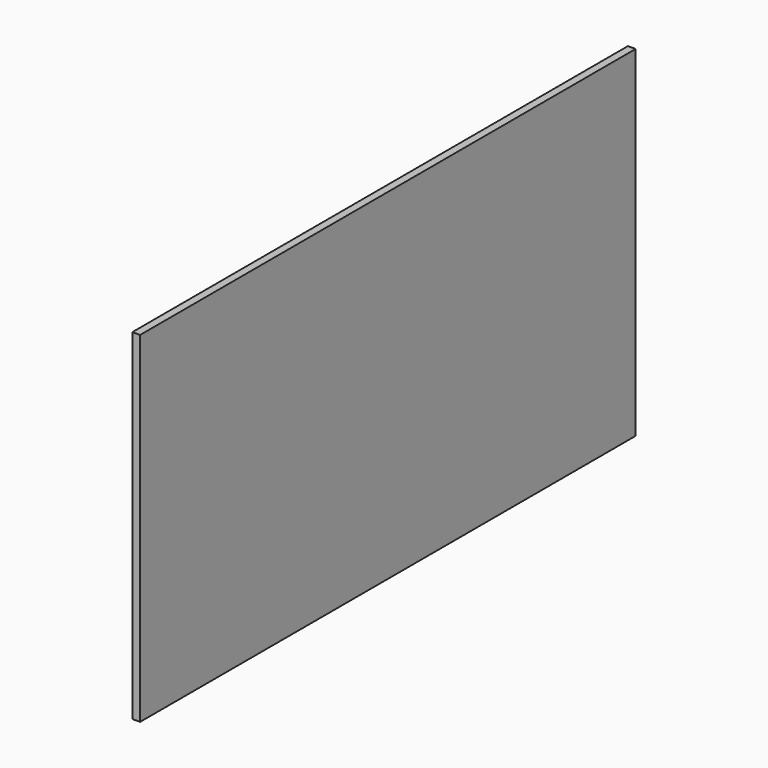
from build123d import *

# Parameters (mm, degrees)
F0_W      = 3.175
F0_H      = 139.7
F1_DEPTH  = 419.1
F1_FACE_W = 3.175
F1_FACE_H = 139.7
F2_DEPTH  = 165.1


with BuildPart() as f1:
    # F0 (on Front) → F1 (new body)
    with BuildSketch(Plane.XZ):
        with Locations((-47.379184, 7.922765)):
            Rectangle(F0_W, F0_H)
    extrude(amount=F1_DEPTH)

    # F1_face (on face) → F2 (cut)
    with BuildSketch(Plane(origin=(-47.379184, 0, 7.922765), x_dir=(1, 0, 0), z_dir=(0, 1, 0))):
        Rectangle(F1_FACE_W, F1_FACE_H)
    extrude(amount=-F2_DEPTH, mode=Mode.SUBTRACT)


solid = f1.part
